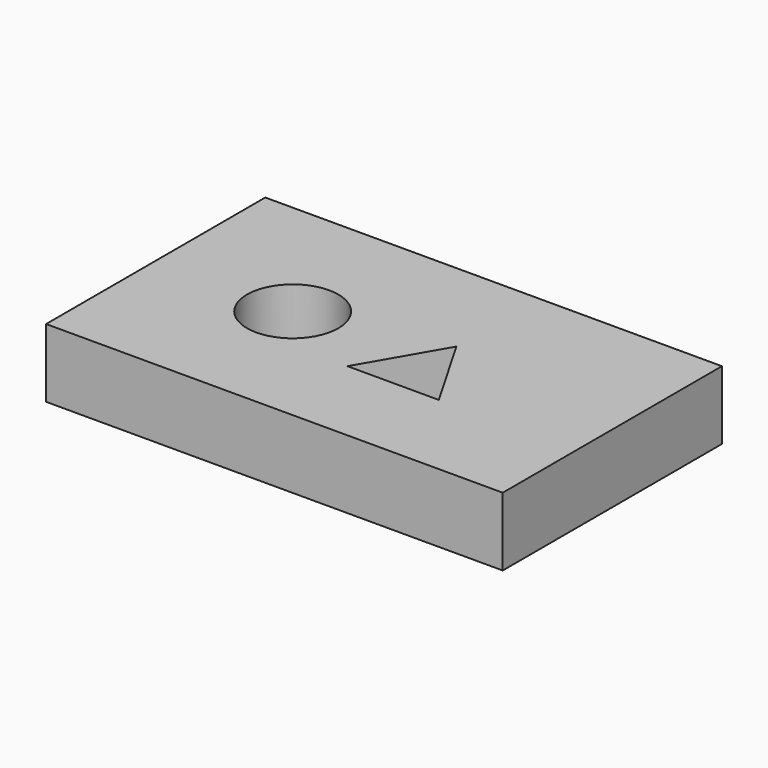
from build123d import *

# Parameters (mm, degrees)
F0_W     = 127
F0_H     = 19.05
F1_DEPTH = 76.2
F2_R     = 12.7
F3_DEPTH = 25.4
F5_DEPTH = 25.4


with BuildPart() as f1:
    # F0 (on Front) → F1 (new body)
    with BuildSketch(Plane.XZ):
        with Locations((3.121564, 23.662644)):
            Rectangle(F0_W, F0_H)
    extrude(amount=F1_DEPTH)

    # F2 (on face) → F3 (cut)
    with BuildSketch(Plane.XY.offset(33.187644)):
        with Locations((-22.278436, -38.1)):
            Circle(F2_R)
    extrude(amount=-F3_DEPTH, mode=Mode.SUBTRACT)

    # F4 (on face) → F5 (cut)
    with BuildSketch(Plane.XY.offset(33.187644)):
        Polygon((28.521564, -50.8), (15.821564, -28.802955), (3.121564, -50.8), align=None)
    extrude(amount=-F5_DEPTH, mode=Mode.SUBTRACT)


solid = f1.part
